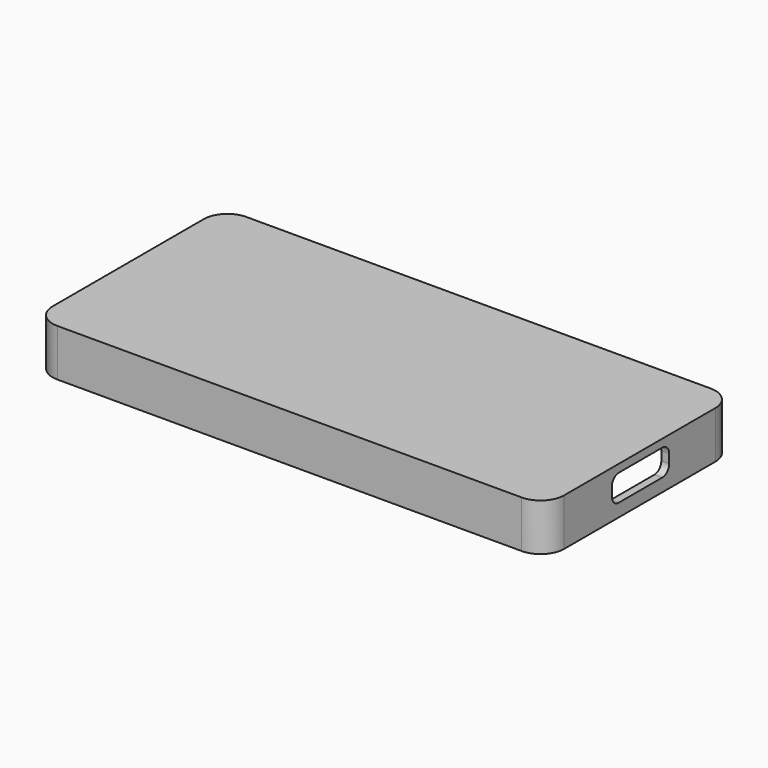
from build123d import *

# Parameters (mm, degrees)
PAD_DEPTH       = 6
POCKET_DEPTH    = 5
SKETCH002_R     = 2.25
SKETCH002_R_2   = 1.6
PAD001_DEPTH    = 4
POCKET001_DEPTH = 10


with BuildPart() as part:
    # Sketch → Pad (new body)
    with BuildSketch(Plane.XY):
        with BuildLine():
            Line((3, 0), (62, 0))
            ThreePointArc((62, 0), (64.12132, 0.87868), (65, 3))
            Line((65, 3), (65, 27))
            ThreePointArc((65, 27), (64.12132, 29.12132), (62, 30))
            Line((62, 30), (3, 30))
            ThreePointArc((3, 30), (0.87868, 29.12132), (0, 27))
            Line((0, 27), (0, 3))
            ThreePointArc((0, 3), (0.87868, 0.87868), (3, 0))
        make_face()
    extrude(amount=PAD_DEPTH)

    # Sketch001 → Pocket (cut)
    with BuildSketch(Plane.XY):
        with BuildLine():
            Line((1, 27), (1, 3))
            ThreePointArc((1, 3), (1.585786, 1.585786), (3, 1))
            Line((3, 1), (62, 1))
            ThreePointArc((62, 1), (63.414214, 1.585786), (64, 3))
            Line((64, 3), (64, 27))
            ThreePointArc((64, 27), (63.414214, 28.414214), (62, 29))
            Line((62, 29), (3, 29))
            ThreePointArc((3, 29), (1.585786, 28.414214), (1, 27))
        make_face()
    extrude(amount=POCKET_DEPTH, mode=Mode.SUBTRACT)

    # Sketch002 → Pad001 (join)
    with BuildSketch(Plane.XY.offset(1)):
        with Locations((62.25, 27.3)):
            Circle(SKETCH002_R)
        with Locations((62.25, 27.3)):
            Circle(SKETCH002_R_2, mode=Mode.SUBTRACT)
        with Locations((2.75, 27.3)):
            Circle(SKETCH002_R)
        with Locations((2.75, 27.3)):
            Circle(SKETCH002_R_2, mode=Mode.SUBTRACT)
        with Locations((2.75, 2.7)):
            Circle(SKETCH002_R)
        with Locations((2.75, 2.7)):
            Circle(SKETCH002_R_2, mode=Mode.SUBTRACT)
        with Locations((62.25, 2.7)):
            Circle(SKETCH002_R)
        with Locations((62.25, 2.7)):
            Circle(SKETCH002_R_2, mode=Mode.SUBTRACT)
    extrude(amount=PAD001_DEPTH)

    # Sketch003 → Pocket001 (cut)
    with BuildSketch(Plane.YZ.offset(70)):
        with BuildLine():
            Line((10.57, 3.9), (10.57, 2.75))
            ThreePointArc((10.57, 2.75), (10.892183, 1.972183), (11.67, 1.65))
            Line((11.67, 1.65), (18.57, 1.65))
            ThreePointArc((18.57, 1.65), (19.347817, 1.972183), (19.67, 2.75))
            Line((19.67, 2.75), (19.67, 3.9))
            ThreePointArc((19.67, 3.9), (19.347817, 4.677817), (18.57, 5))
            Line((18.57, 5), (11.67, 5))
            ThreePointArc((11.67, 5), (10.892183, 4.677817), (10.57, 3.9))
        make_face()
    extrude(amount=-POCKET001_DEPTH, mode=Mode.SUBTRACT)


solid = part.part
